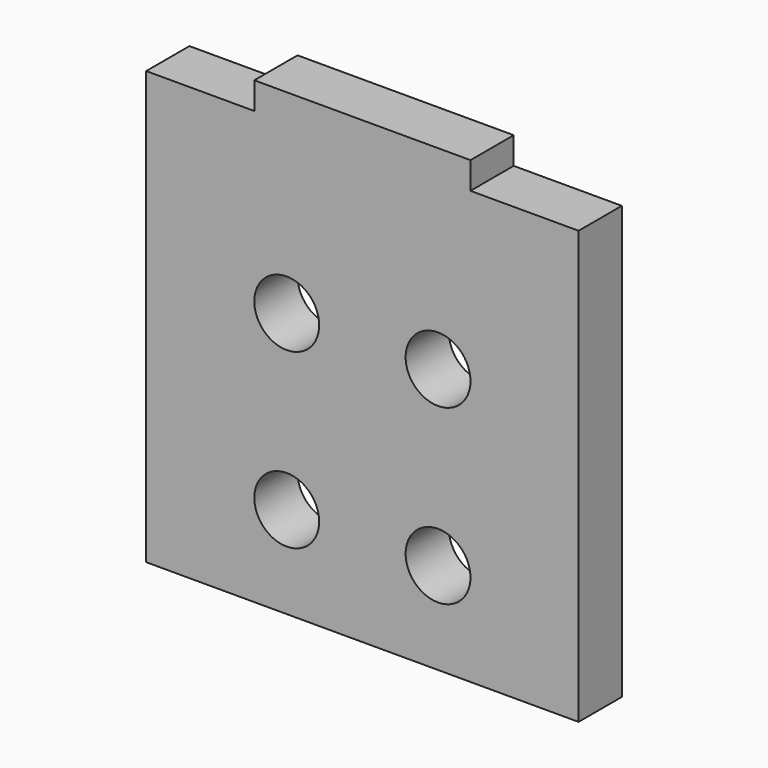
from build123d import *

# Parameters (mm, degrees)
F0_R     = 6
F0_W     = 40
F0_H     = 5
F1_DEPTH = 10


with BuildPart() as f1:
    # F0 (on Front) → F1 (new body)
    with BuildSketch(Plane.XZ):
        Polygon((0, 80), (0, 0), (80, 0), (80, 80), (60, 80), (20, 80), align=None)
        with Locations((26, 17)):
            Circle(F0_R, mode=Mode.SUBTRACT)
        with Locations((54, 17)):
            Circle(F0_R, mode=Mode.SUBTRACT)
        with Locations((26, 49)):
            Circle(F0_R, mode=Mode.SUBTRACT)
        with Locations((54, 49)):
            Circle(F0_R, mode=Mode.SUBTRACT)
        with Locations((40, 82.5)):
            Rectangle(F0_W, F0_H)
    extrude(amount=F1_DEPTH)


solid = f1.part
